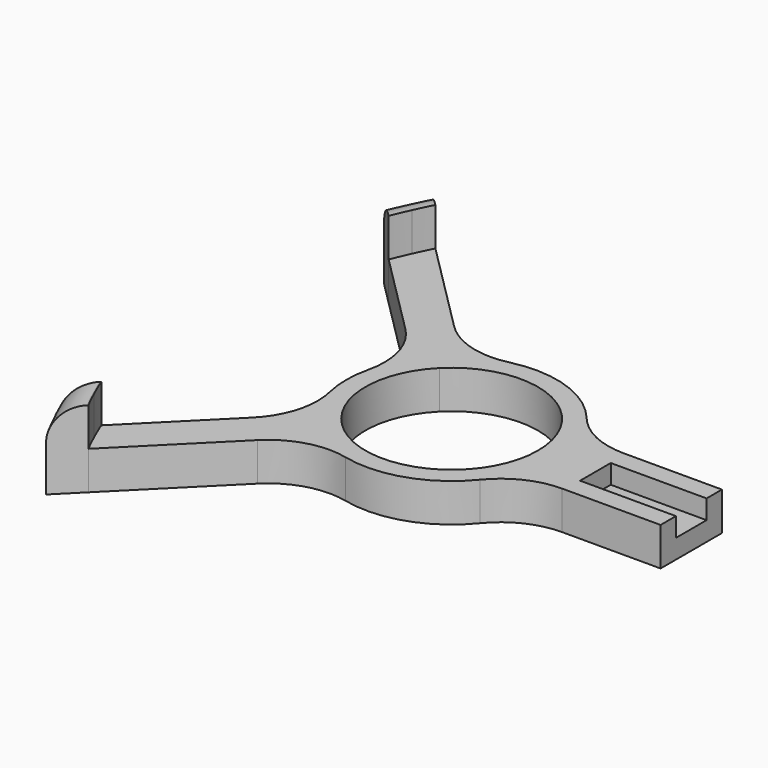
from build123d import *

# Parameters (mm, degrees)
F1_DEPTH = 10
F2_R     = 20
F3_DEPTH = 20
F0_W     = 25
F0_H     = 10
F4_DEPTH = 5
F5_R     = 8


with BuildPart() as f1:
    # F0 (on Top) → F1 (new body)
    with BuildSketch(Plane.XY):
        with BuildLine():
            Line((0, 10), (-36.8826230851, 10))
            ThreePointArc((-36.8826230851, 10), (-35.4747537924, 5.0878352391), (-35, 0))
            ThreePointArc((-35, 0), (-35.4747537924, -5.0878352391), (-36.8826230851, -10))
            Line((-36.8826230851, -10), (0, -10))
            Line((0, -10), (0, -5))
            Line((0, -5), (-25, -5))
            Line((-25, -5), (-25, 5))
            Line((-25, 5), (0, 5))
            Line((0, 5), (0, 10))
        make_face()
        with BuildLine():
            Line((-114.3075854453, 51.8075854453), (-81.9454364826, 19.4454364826))
            ThreePointArc((-81.9454364826, 19.4454364826), (-80.0890590993, 21.1394181566), (-78.08578927, 22.6568570819))
            Line((-78.08578927, 22.6568570819), (-112.0176888624, 56.5887566742))
            ThreePointArc((-112.0176888624, 56.5887566742), (-113.1878851609, 54.2102633531), (-114.3075854453, 51.8075854453))
        make_face()
        with BuildLine():
            ThreePointArc((-85.1568570819, 15.58578927), (-83.6394181566, 17.5890590993), (-81.9454364826, 19.4454364826))
            Line((-81.9454364826, 19.4454364826), (-114.3075854453, 51.8075854453))
            ThreePointArc((-114.3075854453, 51.8075854453), (-115.3931446982, 49.3423971515), (-116.4255463439, 46.8544785321))
            Line((-116.4255463439, 46.8544785321), (-85.1568570819, 15.58578927))
        make_face()
        with BuildLine():
            ThreePointArc((-78.4099025767, 15.9099025767), (-53.8896227718, 20.7872894815), (-40, 0))
            ThreePointArc((-40, 0), (-53.8896227718, -20.7872894815), (-78.4099025767, -15.9099025767))
            Line((-78.4099025767, -15.9099025767), (-81.9454364826, -19.4454364826))
            ThreePointArc((-81.9454364826, -19.4454364826), (-80.0890590993, -21.1394181566), (-78.08578927, -22.6568570819))
            ThreePointArc((-78.08578927, -22.6568570819), (-54.424902758, -26.2876930242), (-36.8826230851, -10))
            ThreePointArc((-36.8826230851, -10), (-35.4747537924, -5.0878352391), (-35, 0))
            ThreePointArc((-35, 0), (-35.4747537924, 5.0878352391), (-36.8826230851, 10))
            ThreePointArc((-36.8826230851, 10), (-54.424902758, 26.2876930242), (-78.08578927, 22.6568570819))
            ThreePointArc((-78.08578927, 22.6568570819), (-80.0890590993, 21.1394181566), (-81.9454364826, 19.4454364826))
            Line((-81.9454364826, 19.4454364826), (-78.4099025767, 15.9099025767))
        make_face()
        with BuildLine():
            ThreePointArc((-78.4099025767, -15.9099025767), (-85, 0), (-78.4099025767, 15.9099025767))
            Line((-78.4099025767, 15.9099025767), (-81.9454364826, 19.4454364826))
            ThreePointArc((-81.9454364826, 19.4454364826), (-83.6394181566, 17.5890590993), (-85.1568570819, 15.58578927))
            ThreePointArc((-85.1568570819, 15.58578927), (-90, 0), (-85.1568570819, -15.58578927))
            ThreePointArc((-85.1568570819, -15.58578927), (-83.6394181566, -17.5890590993), (-81.9454364826, -19.4454364826))
            Line((-81.9454364826, -19.4454364826), (-78.4099025767, -15.9099025767))
        make_face()
        with BuildLine():
            Line((-114.3075854453, -51.8075854453), (-81.9454364826, -19.4454364826))
            ThreePointArc((-81.9454364826, -19.4454364826), (-83.6394181566, -17.5890590993), (-85.1568570819, -15.58578927))
            Line((-85.1568570819, -15.58578927), (-116.4255463439, -46.8544785321))
            ThreePointArc((-116.4255463439, -46.8544785321), (-115.3931446982, -49.3423971515), (-114.3075854453, -51.8075854453))
        make_face()
        with BuildLine():
            ThreePointArc((-78.08578927, -22.6568570819), (-80.0890590993, -21.1394181566), (-81.9454364826, -19.4454364826))
            Line((-81.9454364826, -19.4454364826), (-114.3075854453, -51.8075854453))
            ThreePointArc((-114.3075854453, -51.8075854453), (-113.1878851609, -54.2102633531), (-112.0176888624, -56.5887566742))
            Line((-112.0176888624, -56.5887566742), (-78.08578927, -22.6568570819))
        make_face()
        with BuildLine():
            ThreePointArc((-112.0176888624, -56.5887566742), (-113.1878851609, -54.2102633531), (-114.3075854453, -51.8075854453))
            ThreePointArc((-114.3075854453, -51.8075854453), (-115.3931446982, -49.3423971515), (-116.4255463439, -46.8544785321))
            Line((-116.4255463439, -46.8544785321), (-122.731528021, -53.1604602091))
            ThreePointArc((-122.731528021, -53.1604602091), (-120.5294282278, -57.98033659), (-118.1381334557, -62.7092012675))
            Line((-118.1381334557, -62.7092012675), (-112.0176888624, -56.5887566742))
        make_face()
        with BuildLine():
            ThreePointArc((-116.4255463439, 46.8544785321), (-115.3931446982, 49.3423971515), (-114.3075854453, 51.8075854453))
            ThreePointArc((-114.3075854453, 51.8075854453), (-113.1878851609, 54.2102633531), (-112.0176888624, 56.5887566742))
            Line((-112.0176888624, 56.5887566742), (-118.1381334557, 62.7092012675))
            ThreePointArc((-118.1381334557, 62.7092012675), (-120.5294282278, 57.98033659), (-122.731528021, 53.1604602091))
            Line((-122.731528021, 53.1604602091), (-116.4255463439, 46.8544785321))
        make_face()
    extrude(amount=F1_DEPTH)

    # F2
    f2_edges = [f1.edges().sort_by_distance(p)[0] for p in [
        (-78.085789, -22.656857, 5),
        (-36.882623, -10, 5),
        (-36.882623, 10, 5),
        (-78.085789, 22.656857, 5),
        (-85.156857, -15.585789, 5),
        (-85.156857, 15.585789, 5),
    ]]
    fillet(f2_edges, radius=F2_R)

    # F0 (on Top) → F3 (join)
    with BuildSketch(Plane.XY):
        with BuildLine():
            ThreePointArc((-116.4255463439, 46.8544785321), (-115.3931446982, 49.3423971515), (-114.3075854453, 51.8075854453))
            ThreePointArc((-114.3075854453, 51.8075854453), (-113.1878851609, 54.2102633531), (-112.0176888624, 56.5887566742))
            Line((-112.0176888624, 56.5887566742), (-118.1381334557, 62.7092012675))
            ThreePointArc((-118.1381334557, 62.7092012675), (-120.5294282278, 57.98033659), (-122.731528021, 53.1604602091))
            Line((-122.731528021, 53.1604602091), (-116.4255463439, 46.8544785321))
        make_face()
        with BuildLine():
            ThreePointArc((-112.0176888624, -56.5887566742), (-113.1878851609, -54.2102633531), (-114.3075854453, -51.8075854453))
            ThreePointArc((-114.3075854453, -51.8075854453), (-115.3931446982, -49.3423971515), (-116.4255463439, -46.8544785321))
            Line((-116.4255463439, -46.8544785321), (-122.731528021, -53.1604602091))
            ThreePointArc((-122.731528021, -53.1604602091), (-120.5294282278, -57.98033659), (-118.1381334557, -62.7092012675))
            Line((-118.1381334557, -62.7092012675), (-112.0176888624, -56.5887566742))
        make_face()
    extrude(amount=F3_DEPTH)

    # F0 (on Top) → F4 (join)
    with BuildSketch(Plane.XY):
        with Locations((-12.5, 0)):
            Rectangle(F0_W, F0_H)
    extrude(amount=F4_DEPTH)

    # F5
    f5_edges = [f1.edges().sort_by_distance(p)[0] for p in [
        (-120.529428, -57.980337, 20),
        (-120.529428, 57.980337, 20),
    ]]
    fillet(f5_edges, radius=F5_R)


solid = f1.part
